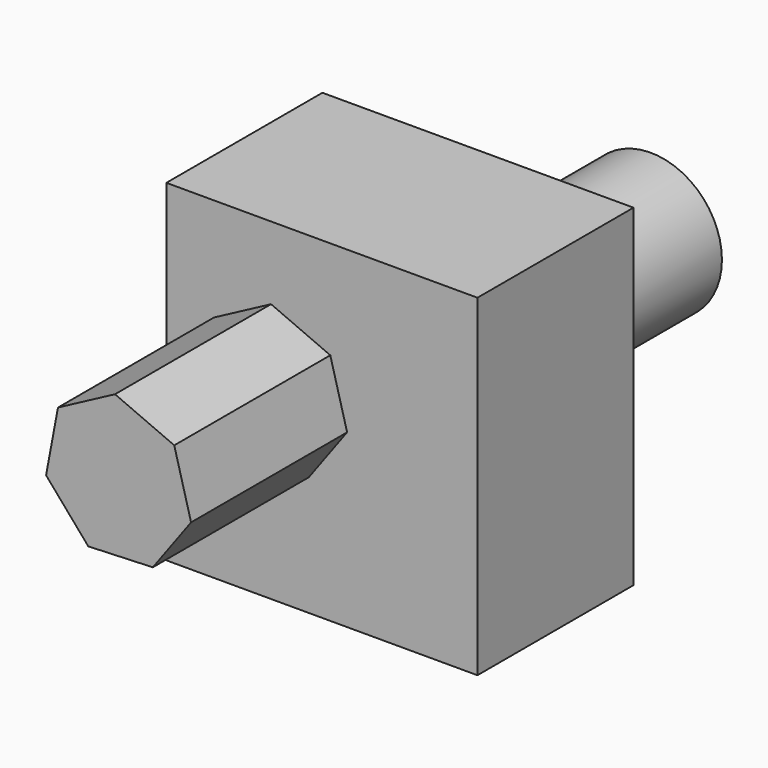
from build123d import *

# Parameters (mm, degrees)
F0_W      = 81.030168
F0_H      = 86.568199
F1_DEPTH  = 25.4
F2_R      = 18.53564
F1_FACE_W = 81.030168
F1_FACE_H = 86.5682
F3_DEPTH  = 25.4
F3_FACE_R = 18.53564
F4_DEPTH  = 25.4
F5_DEPTH  = 25.4
F7_DEPTH  = 50.8


with BuildPart() as f1:
    # F0 (on Front) → F1 (new body)
    with BuildSketch(Plane.XZ):
        with Locations((-4.372131, -4.955084)):
            Rectangle(F0_W, F0_H)
    extrude(amount=F1_DEPTH)

    # F2 (on Front) + F1_face (on face) → F3 (join)
    with BuildSketch(Plane.XZ):
        Circle(F2_R)
    with BuildSketch(Plane(origin=(-4.372131, -25.4, -4.955083), x_dir=(1, 0, 0), z_dir=(0, -1, 0))):
        Rectangle(F1_FACE_W, F1_FACE_H)
    extrude(amount=-F3_DEPTH)

    # F3_face (on face) → F4 (join)
    with BuildSketch(Plane(origin=(0, 25.4, 0), x_dir=(1, 0, 0), z_dir=(0, 1, 0))):
        Circle(F3_FACE_R)
    extrude(amount=F4_DEPTH)

    # F1_face (on face) → F5 (join)
    with BuildSketch(Plane(origin=(-4.372131, -25.4, -4.955083), x_dir=(1, 0, 0), z_dir=(0, -1, 0))):
        Rectangle(F1_FACE_W, F1_FACE_H)
    extrude(amount=F5_DEPTH)

    # F6 (on face) → F7 (join)
    with BuildSketch(Plane.XZ.offset(50.8)):
        Polygon((2.191128, -3.569517), (-2.191128, 12.669364), (-17.619488, 19.367956), (-32.476083, 11.482082), (-35.573595, -5.050034), (-24.579532, -17.779372), (-7.77265, -17.12048), align=None)
    extrude(amount=F7_DEPTH)


solid = f1.part
